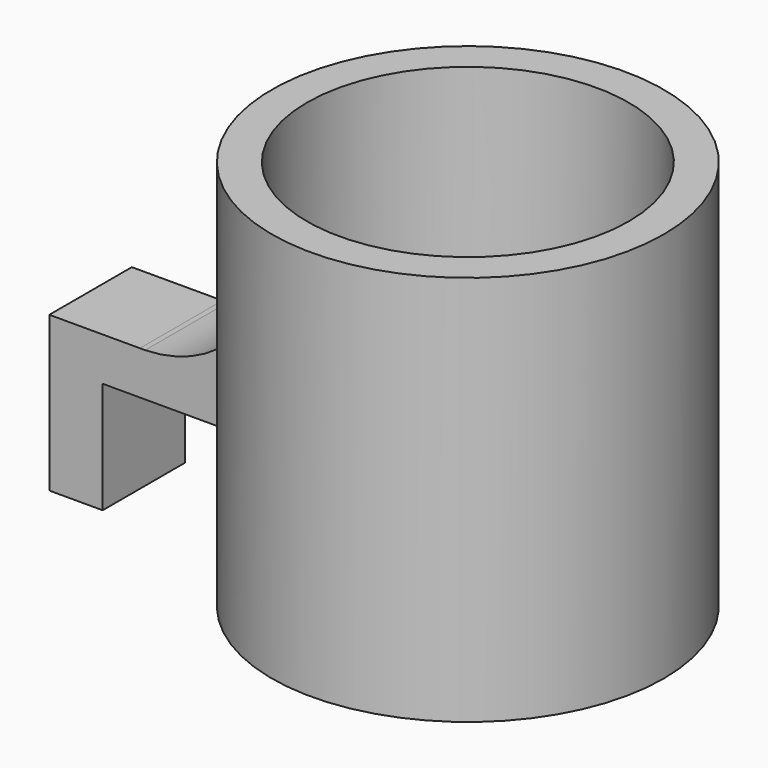
from build123d import *

# Parameters (mm, degrees)
F2_DEPTH = 12.5


with BuildPart() as f1:
    # F0 (on Front) → F1 (revolve)
    with BuildSketch(Plane.XZ):
        with BuildLine():
            Line((53.0745375094, -51.4902840658), (53.0745375094, -60.7027623664))
            Line((53.0745375094, -60.7027623664), (100.5745375094, -60.7027623664))
            Line((100.5745375094, -60.7027623664), (100.5745375094, 34.0541115609))
            Line((100.5745375094, 34.0541115609), (92.0714008287, 34.0541115609))
            Line((92.0714008287, 34.0541115609), (92.0714008287, -46.4902840658))
            ThreePointArc((92.0714008287, -46.4902840658), (90.6069347347, -50.0258179717), (87.0714008287, -51.4902840658))
            Line((87.0714008287, -51.4902840658), (53.0745375094, -51.4902840658))
        make_face()
    revolve(axis=Axis((53.0745375094, 0, -15.542457558), (0, 0, 1)))

    # F0 (on Front) → F2 (join, symmetric)
    with BuildSketch(Plane.XZ):
        with BuildLine():
            Line((-38.3499438338, -60.7027623664), (-25.4254624906, -60.7027623664))
            Line((-25.4254624906, -60.7027623664), (-25.4254624906, -33.7027623664))
            Line((-25.4254624906, -33.7027623664), (5.5745375094, -33.7027623664))
            Line((5.5745375094, -33.7027623664), (14.0714008287, -33.7027623664))
            Line((14.0714008287, -33.7027623664), (14.0714008287, -23.182044171))
            Line((14.0714008287, -23.182044171), (5.568264148, -23.1920774209))
            Line((5.568264148, -23.1920774209), (-15.13631307, -23.1920774209))
            ThreePointArc((-15.13631307, -23.1920774209), (-15.7635764564, -23.1984686799), (-16.3908398429, -23.1920774209))
            Line((-16.3908398429, -23.1920774209), (-38.3499438338, -23.1920774209))
            Line((-38.3499438338, -23.1920774209), (-38.3499438338, -60.7027623664))
        make_face()
        with BuildLine():
            ThreePointArc((5.568264148, -14.6093214591), (-3.9751716875, -20.8519322119), (-15.13631307, -23.1920774209))
            Line((-15.13631307, -23.1920774209), (5.568264148, -23.1920774209))
            Line((5.568264148, -23.1920774209), (5.568264148, -14.6093214591))
        make_face()
        with BuildLine():
            Line((5.568264148, -23.1920774209), (14.0714008287, -23.182044171))
            Line((14.0714008287, -23.182044171), (14.0714008287, 0))
            ThreePointArc((14.0714008287, 0), (10.8422289554, -7.8997312758), (5.568264148, -14.6093214591))
            Line((5.568264148, -14.6093214591), (5.568264148, -23.1920774209))
        make_face()
    extrude(amount=F2_DEPTH, both=True)


solid = f1.part
